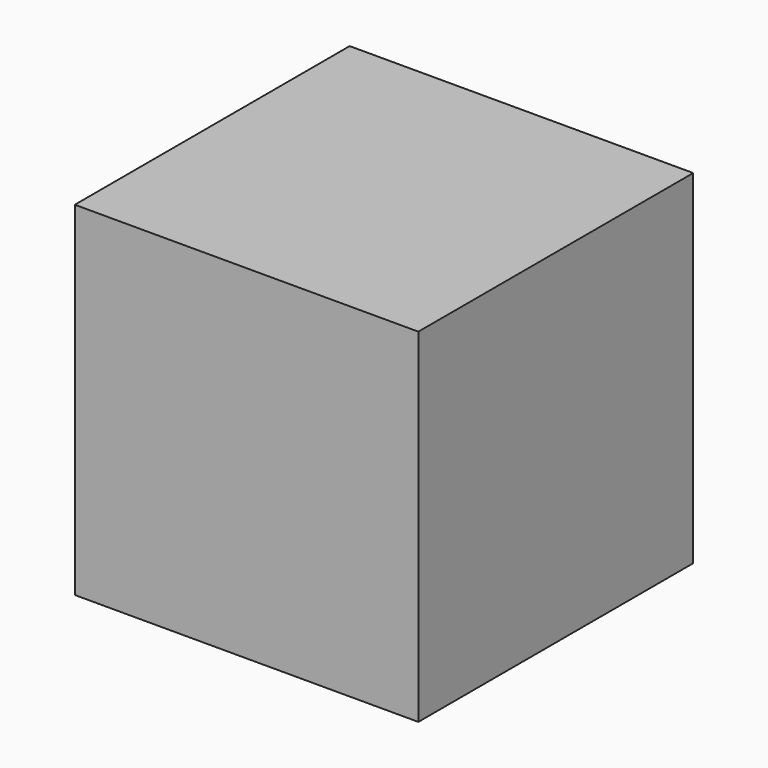
from build123d import *

# Parameters (mm, degrees)
F0_W      = 82.55
F0_H      = 82.55
F1_DEPTH  = 82.55
F2_R      = 19.086934
F3_DEPTH  = 25.4
F3_FACE_R = 19.086934
F4_DEPTH  = 25.4


with BuildPart() as f1:
    # F0 (on Front) → F1 (new body)
    with BuildSketch(Plane.XZ):
        with Locations((4.84459, 10.976995)):
            Rectangle(F0_W, F0_H)
    extrude(amount=F1_DEPTH)

    # F2 (on face) → F3 (cut)
    with BuildSketch(Plane.XZ.offset(82.55)):
        with Locations((3.240283, 11.269498)):
            Circle(F2_R)
    extrude(amount=-F3_DEPTH, mode=Mode.SUBTRACT)

    # F3_face (on face) → F4 (join)
    with BuildSketch(Plane(origin=(3.240283, -57.15, 11.269498), x_dir=(1, 0, 0), z_dir=(0, -1, 0))):
        Circle(F3_FACE_R)
    extrude(amount=F4_DEPTH)


solid = f1.part
